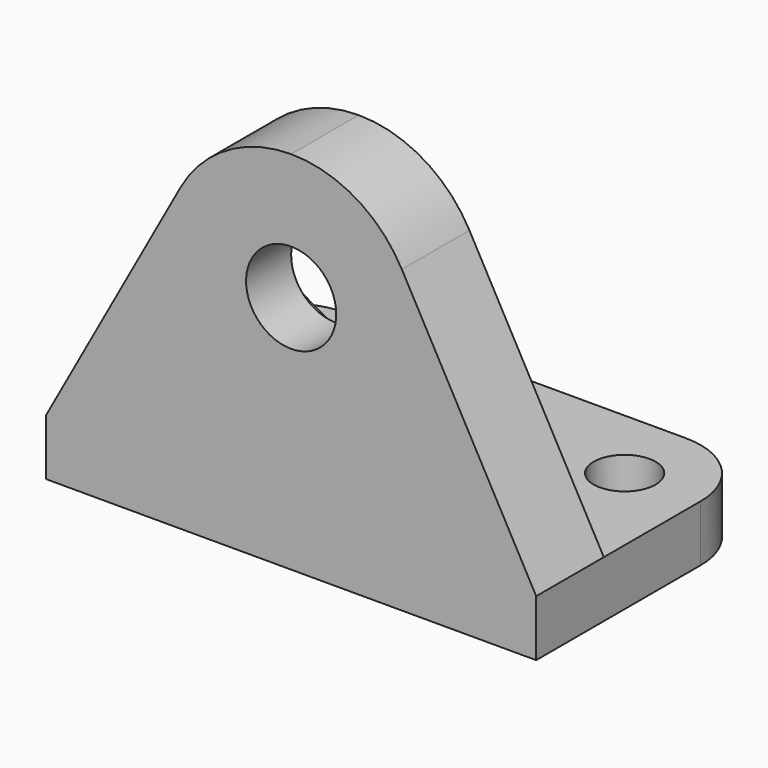
from build123d import *

# Parameters (mm, degrees)
SKETCH_R     = 2.2
PAD_DEPTH    = 4
PAD001_DEPTH = 6
POCKET_DEPTH = 2


with BuildPart() as part:
    # Sketch → Pad (new body)
    with BuildSketch(Plane.XY):
        with BuildLine():
            Line((0, 0), (17.4, 0))
            Line((17.4, 0), (17.4, 14.6))
            ThreePointArc((17.4, 14.6), (15.818377, 18.418377), (12, 20))
            Line((12, 20), (0, 20))
            Line((0, 20), (0, 0))
        make_face()
        with Locations((12, 14.6)):
            Circle(SKETCH_R, mode=Mode.SUBTRACT)
    pad = extrude(amount=PAD_DEPTH)

    # Sketch001 → Pad001 (join)
    with BuildSketch(Plane.XZ):
        with BuildLine():
            ThreePointArc((0, 13.8), (3.2, 17), (0, 20.2))
            Line((0, 20.2), (0, 25.973503))
            ThreePointArc((7.861053, 21.327539), (4.565663, 24.725184), (0, 25.973503))
            Line((7.861053, 21.327539), (17.4, 4))
            Line((17.4, 0), (17.4, 4))
            Line((0, 0), (17.4, 0))
            Line((0, 13.8), (0, 0))
        make_face()
    pad001 = extrude(amount=-PAD001_DEPTH)

    # Sketch002 → Pocket (cut)
    with BuildSketch(Plane.XZ.offset(-6)):
        Polygon((0, 22.773503), (-5, 19.886751), (-5, 14.113249), (0, 11.226497), (5, 14.113249), (5, 19.886751), align=None)
    pocket = extrude(amount=POCKET_DEPTH, mode=Mode.SUBTRACT)

    # Mirrored: Pad, Pad001, Pocket across Sketch V_Axis
    add(pad.mirror(Plane(origin=(0, 0, 0), x_dir=(0, 0, 1), z_dir=(1, 0, 0))))
    add(pad001.mirror(Plane(origin=(0, 0, 0), x_dir=(0, 0, 1), z_dir=(1, 0, 0))))
    add(pocket.mirror(Plane(origin=(0, 0, 0), x_dir=(0, 0, 1), z_dir=(1, 0, 0))), mode=Mode.SUBTRACT)


solid = part.part
